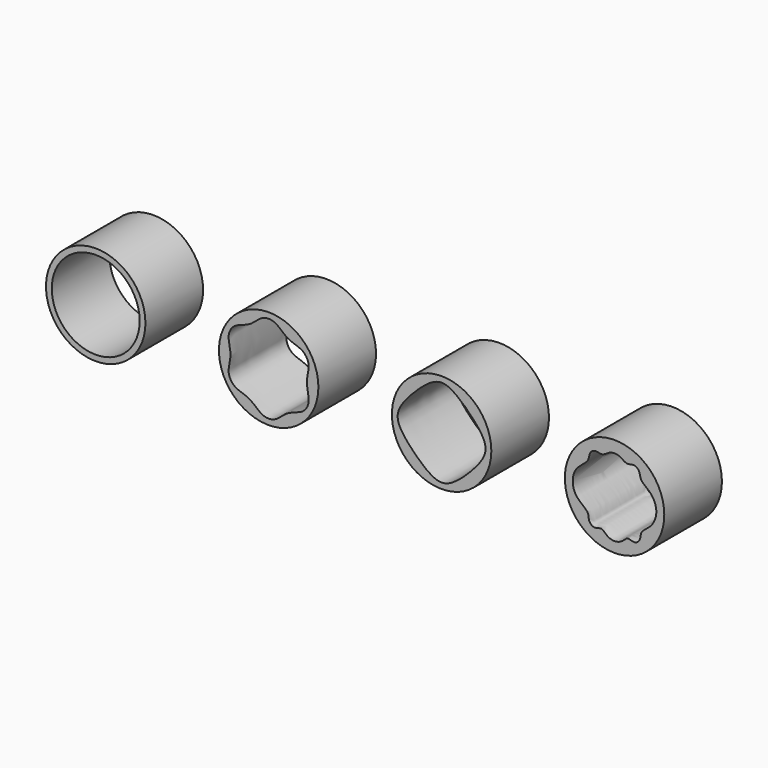
from build123d import *

# Parameters (mm, degrees)
F0_R     = 17.25
F1_DEPTH = 25
F0_R_2   = 15.25


with BuildPart() as f1:
    # F0 (on Front) → F1 (new body)
    with BuildSketch(Plane.XZ):
        with Locations((60, 0)):
            Circle(F0_R)
        with BuildLine():
            add(Edge.make_bspline(
                [(60, 15.25), (58.7759575884, 15.25), (55.8963577881, 14.1884640958), (50.5025623878, 9.4974376122), (45.8115359042, 4.1036422119), (44.298768906, 0), (45.8115359042, -4.1036422119), (50.5025623878, -9.4974376122), (55.8963577881, -14.1884640958), (60, -15.701231094), (64.1036422119, -14.1884640958), (69.4974376122, -9.4974376122), (74.1884640958, -4.1036422119), (75.701231094, 0), (74.1884640958, 4.1036422119), (69.4974376122, 9.4974376122), (64.1036422119, 14.1884640958), (61.2240424116, 15.25), (60, 15.25)],
                knots=[0, 0, 0, 0, 0.0531342242, 0.125, 0.1968657758, 0.25, 0.3031342242, 0.375, 0.4468657758, 0.5, 0.5531342242, 0.625, 0.6968657758, 0.75, 0.8031342242, 0.875, 0.9468657758, 1, 1, 1, 1], degree=3))
        make_face(mode=Mode.SUBTRACT)
    extrude(amount=F1_DEPTH)


with BuildPart() as f1b:
    # F0 (on Front) → F1, piece 2 (new body)
    with BuildSketch(Plane.XZ):
        Circle(F0_R)
        with BuildLine():
            add(Edge.make_bspline(
                [(2.690890027, 14.4793675188), (1.7872147977, 15.0432115566), (0, 15.4567884434), (-2.9755840917, 14.7682126736), (-6.3317744739, 10.9669550908), (-11.301855298, 9.9610377514), (-13.3859714529, 7.7283942217), (-14.2774393898, 4.8071749222), (-12.6635489478, 0), (-14.2774393897, -4.8071749223), (-13.3859714529, -7.7283942217), (-11.301855298, -9.9610377514), (-6.3317744739, -10.9669550908), (-2.9755840917, -14.7682126736), (0, -15.4567884434), (2.9755840917, -14.7682126736), (6.3317744739, -10.9669550908), (11.301855298, -9.9610377514), (13.3859714529, -7.7283942217), (14.2774393897, -4.8071749223), (12.6635489478, 0), (14.2774393898, 4.8071749222), (13.3859714529, 7.7283942217), (11.301855298, 9.9610377514), (6.3317744739, 10.9669550909), (3.8926480873, 13.7295360582), (2.690890027, 14.4793675188)],
                knots=[0, 0, 0, 0, 0.0357675874, 0.0715351747, 0.1191009207, 0.1666666667, 0.202434254, 0.2382018414, 0.2857675874, 0.3333333333, 0.3691009207, 0.404868508, 0.452434254, 0.5, 0.5357675874, 0.5715351747, 0.6191009207, 0.6666666667, 0.702434254, 0.7382018414, 0.7857675874, 0.8333333333, 0.8691009207, 0.904868508, 0.952434254, 1, 1, 1, 1], degree=3))
        make_face(mode=Mode.SUBTRACT)
    extrude(amount=F1_DEPTH)


with BuildPart() as f1c:
    # F0 (on Front) → F1, piece 3 (new body)
    with BuildSketch(Plane.XZ):
        with Locations((-60, 0)):
            Circle(F0_R)
        with Locations((-60, 0)):
            Circle(F0_R_2, mode=Mode.SUBTRACT)
    extrude(amount=F1_DEPTH)


with BuildPart() as f1d:
    # F0 (on Front) → F1, piece 4 (new body)
    with BuildSketch(Plane.XZ):
        with Locations((120, 0)):
            Circle(F0_R)
        with BuildLine():
            add(Edge.make_bspline(
                [(105.5, 0), (105.5, -1.5585373599), (106.3444254978, -4.7435925207), (111.149752088, -7.4671746198), (110.8731620411, -9.8956468764), (111.8721595957, -11.5080358721), (113.6804883136, -11.9508851317), (115.5866455927, -10.8505065232), (117.2770640308, -13.0600661875), (119.9999050801, -13.9300007184), (122.7233021315, -13.0602292925), (124.4129724722, -10.8489725977), (126.324065694, -11.9539047189), (128.1299641031, -11.5010896893), (129.1123509232, -9.9206429059), (128.9315755344, -7.473511814), (132.9501160345, -5.3931533807), (135.3294716699, -0.0012110379), (132.9435281346, 5.397954553), (128.8810867446, 7.5095381354), (128.8083557022, 10.2714581449), (127.8158805995, 11.4163446466), (126.3997373488, 11.9478615634), (124.1603075379, 11.0033220206), (122.0990319108, 12.8620510559), (119.9979394002, 13.3262410877), (117.9096517451, 12.8616934077), (115.8251385859, 11.020933973), (113.718319332, 11.9262180808), (112.1626530134, 11.4552994344), (111.1558251843, 10.1340428222), (111.183941861, 7.5300789), (106.3464479513, 4.7284084604), (105.5, 1.5529430381), (105.5, 0)],
                knots=[0, 0, 0, 0, 0.0418341105, 0.0851091151, 0.1131475967, 0.1383400331, 0.1635324695, 0.1896731777, 0.2195863132, 0.2517926449, 0.2839989766, 0.3139121121, 0.3400914161, 0.3652466581, 0.3904019002, 0.4184763423, 0.4577071946, 0.5031420879, 0.5484537622, 0.5883989275, 0.6183920377, 0.6411198006, 0.6638475635, 0.6923531031, 0.7233003414, 0.7512545263, 0.7792087112, 0.8101559495, 0.8379057503, 0.8615055577, 0.885105365, 0.9143797117, 0.9583160517, 1, 1, 1, 1], degree=3))
        make_face(mode=Mode.SUBTRACT)
    extrude(amount=F1_DEPTH)


solid = Compound([f1.part, f1b.part, f1c.part, f1d.part])
